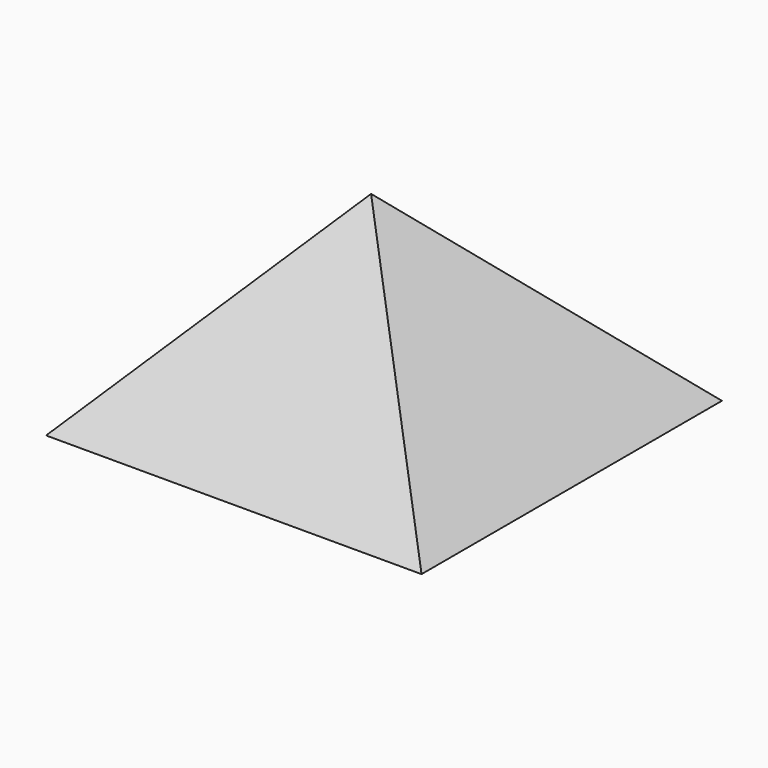
from build123d import *

# Parameters (mm, degrees)
F0_W = 126.208856
F0_H = 126.208856


with BuildPart() as f3:
    # F0 (on Top) → F3 section 0
    with BuildSketch(Plane.XY, mode=Mode.PRIVATE) as f3_s0:
        Rectangle(F0_W, F0_H)
    loft([Vertex(0, -5.431911, 68.58), f3_s0.sketch])


solid = f3.part
